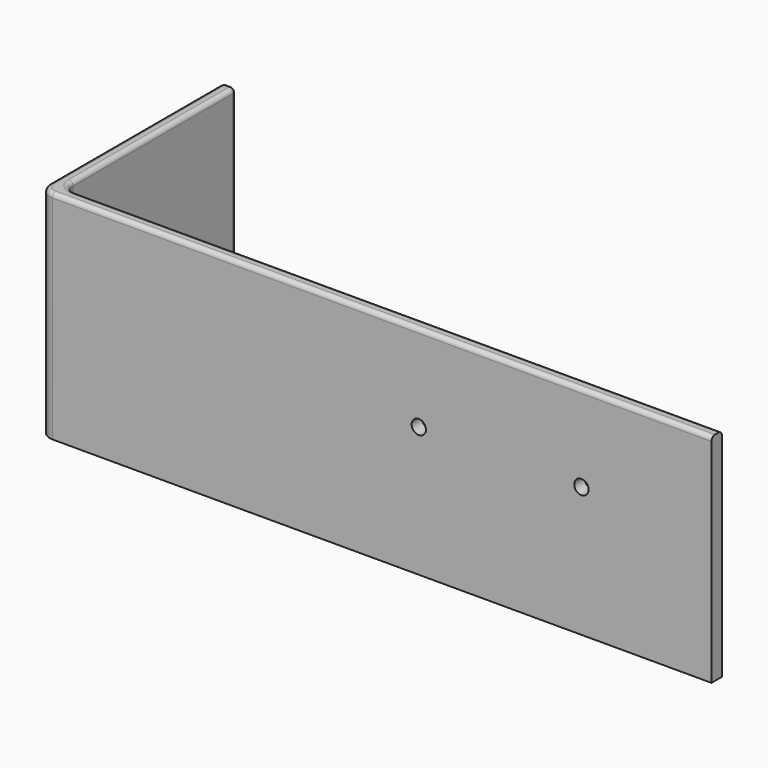
from build123d import *

# Parameters (mm, degrees)
F1_DEPTH = 50
F2_DEPTH = 3
F3_R     = 3
F4_R     = 3
F6_D     = 3.3
F7_R     = 1
F8_R     = 1


with BuildPart() as f1:
    # F0 (on Top) → F1 (new body)
    with BuildSketch(Plane.XY):
        Polygon((-155, 0), (0, 0), (0, 3), (-142, 3), (-152, 3), (-152, 13), (-152, 53), (-155, 53), (-155, 3), align=None)
    extrude(amount=F1_DEPTH)

    # F0 (on Top) → F2 (join)
    with BuildSketch(Plane.XY):
        Polygon((-152, 3), (-142, 3), (-152, 13), align=None)
    extrude(amount=F2_DEPTH)

    # F3
    f3_edges = [f1.edges().sort_by_distance(p)[0] for p in [
        (-152, 3, 26.5),
    ]]
    fillet(f3_edges, radius=F3_R)

    # F4
    f4_edges = [f1.edges().sort_by_distance(p)[0] for p in [
        (-155, 0, 25),
    ]]
    fillet(f4_edges, radius=F4_R)

    # F6 (through all)
    with Locations(Plane.XZ):
        with Locations((-30, 30), (-67.5, 30)):
            Hole(F6_D / 2)

    # F7
    f7_edges = [f1.edges().sort_by_distance(p)[0] for p in [
        (-76, 0, 50),
        (-74.5, 3, 50),
        (-155, 28, 50),
        (-152, 29.5, 50),
        (-151.12132, 3.87868, 50),
        (-154.12132, 0.87868, 50),
    ]]
    fillet(f7_edges, radius=F7_R)

    # F8
    f8_edges = [f1.edges().sort_by_distance(p)[0] for p in [
        (-152, 53, 24.5),
        (-155, 53, 24.5),
        (-152.292893, 53, 49.707107),
        (-153.5, 53, 0),
        (-153.5, 53, 50),
        (-154.707107, 53, 49.707107),
    ]]
    fillet(f8_edges, radius=F8_R)


solid = f1.part
